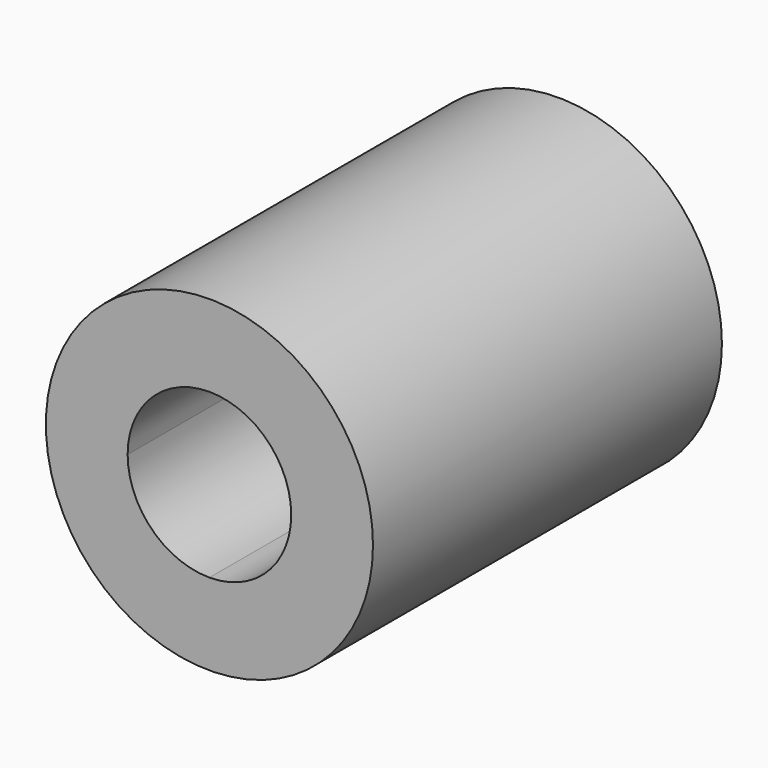
from build123d import *

# Parameters (mm, degrees)
F0_R     = 9.525
F1_DEPTH = 25.4
F3_DEPTH = 25.401
F4_DEPTH = 5.5499


with BuildPart() as f1:
    # F0 (on Front) → F1 (new body)
    with BuildSketch(Plane.XZ):
        Circle(F0_R)
    extrude(amount=F1_DEPTH)

    # F2 (on Front) → F3 (cut, through all)
    with BuildSketch(Plane.XZ):
        with BuildLine():
            ThreePointArc((4.7625, 0), (3.367596, 3.367596), (0, 4.7625))
            ThreePointArc((0, 4.7625), (-3.367596, 3.367596), (-4.7625, 0))
            ThreePointArc((-4.7625, 0), (-3.367596, -3.367596), (0, -4.7625))
            ThreePointArc((0, -4.7625), (3.367596, -3.367596), (4.7625, 0))
        make_face()
    extrude(amount=F3_DEPTH, mode=Mode.SUBTRACT)

    # F2 (on Front) → F4 (cut, symmetric)
    with BuildSketch(Plane.XZ):
        with BuildLine():
            Line((0, 4.7625), (-4.7625, 4.7625))
            Line((-4.7625, 4.7625), (-4.7625, 0))
            ThreePointArc((-4.7625, 0), (-3.367596, 3.367596), (0, 4.7625))
        make_face()
        with BuildLine():
            Line((4.7625, 4.7625), (0, 4.7625))
            ThreePointArc((0, 4.7625), (3.367596, 3.367596), (4.7625, 0))
            Line((4.7625, 0), (4.7625, 4.7625))
        make_face()
        with BuildLine():
            ThreePointArc((0, -4.7625), (-3.367596, -3.367596), (-4.7625, 0))
            Line((-4.7625, 0), (-4.7625, -4.7625))
            Line((-4.7625, -4.7625), (0, -4.7625))
        make_face()
        with BuildLine():
            Line((4.7625, -4.7625), (4.7625, 0))
            ThreePointArc((4.7625, 0), (3.367596, -3.367596), (0, -4.7625))
            Line((0, -4.7625), (4.7625, -4.7625))
        make_face()
    extrude(amount=F4_DEPTH, both=True, mode=Mode.SUBTRACT)


solid = f1.part
